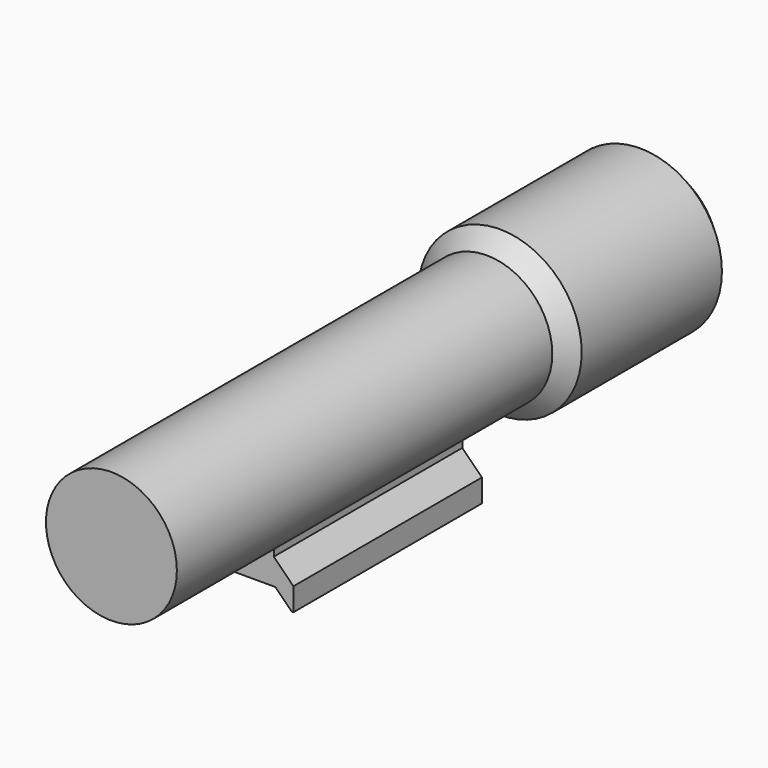
from build123d import *

# Parameters (mm, degrees)
F3_DEPTH = 22.86


with BuildPart() as f1:
    # F0 (on Top) → F1 (revolve)
    with BuildSketch(Plane.XY):
        Polygon((12.4199267048, 78.9793966675), (0, 78.9793966675), (0, -52.7196033325), (12.7, -52.7196033325), (12.7, 38.3393966675), (15.875, 41.5143966675), (15.875, 75.5243233723), align=None)
    revolve(axis=Axis((0, 13.1298966675, 0), (0, 1, 0)))

    # F2 (on Front) → F3 (join, symmetric)
    with BuildSketch(Plane.XZ):
        with BuildLine():
            Line((7.62, -11.43), (7.62, -10.16))
            ThreePointArc((7.62, -10.16), (-1.7960512242, -12.5723585695), (-10.16, -7.62))
            Line((-10.16, -7.62), (-10.16, -10.795))
            Line((-10.16, -10.795), (-20.32, -10.795))
            Line((-20.32, -10.795), (-20.32, -22.86))
            Line((-20.32, -22.86), (-8.636, -22.86))
            Line((-8.636, -22.86), (-8.636, -21.59))
            Line((-8.636, -21.59), (-10.82675, -19.39925))
            Line((-10.82675, -19.39925), (-7.9375, -16.51))
            Line((-7.9375, -16.51), (7.9375, -16.51))
            Line((7.9375, -16.51), (11.1125, -19.685))
            Line((11.1125, -19.685), (11.43, -19.685))
            Line((11.43, -19.685), (11.43, -15.24))
            Line((11.43, -15.24), (7.62, -11.43))
        make_face()
    extrude(amount=F3_DEPTH, both=True)


solid = f1.part
